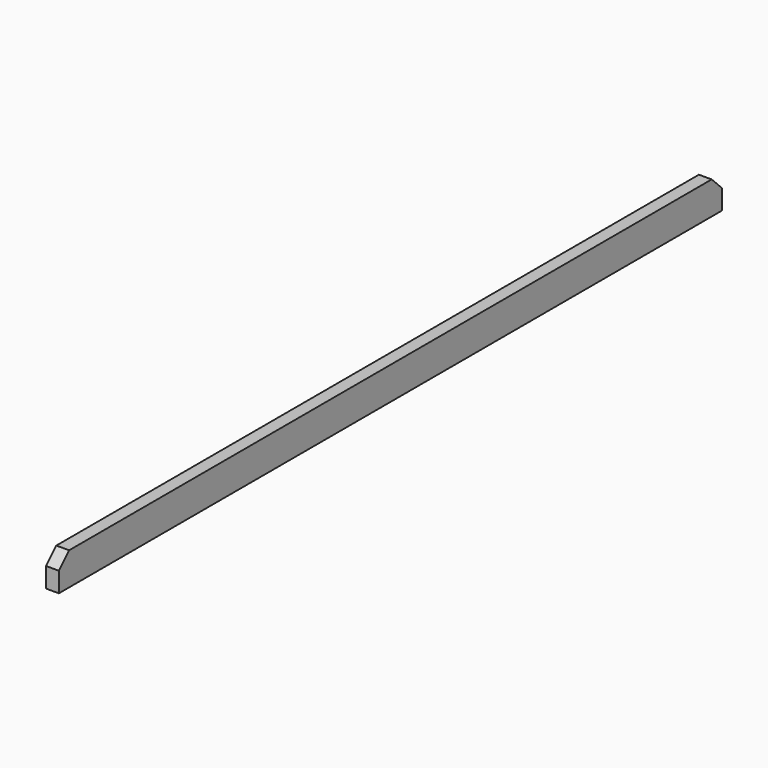
from build123d import *

# Parameters (mm, degrees)
F0_W     = 583
F0_H     = 23
F1_DEPTH = 9
F2_SIZE  = 9


with BuildPart() as f1:
    # F0 (on Right) → F1 (new body)
    with BuildSketch(Plane.YZ):
        Rectangle(F0_W, F0_H)
    extrude(amount=F1_DEPTH)

    # F2
    f2_edges = [f1.edges().sort_by_distance(p)[0] for p in [
        (4.5, 291.5, 11.5),
        (4.5, -291.5, 11.5),
    ]]
    chamfer(f2_edges, length=F2_SIZE)


solid = f1.part
